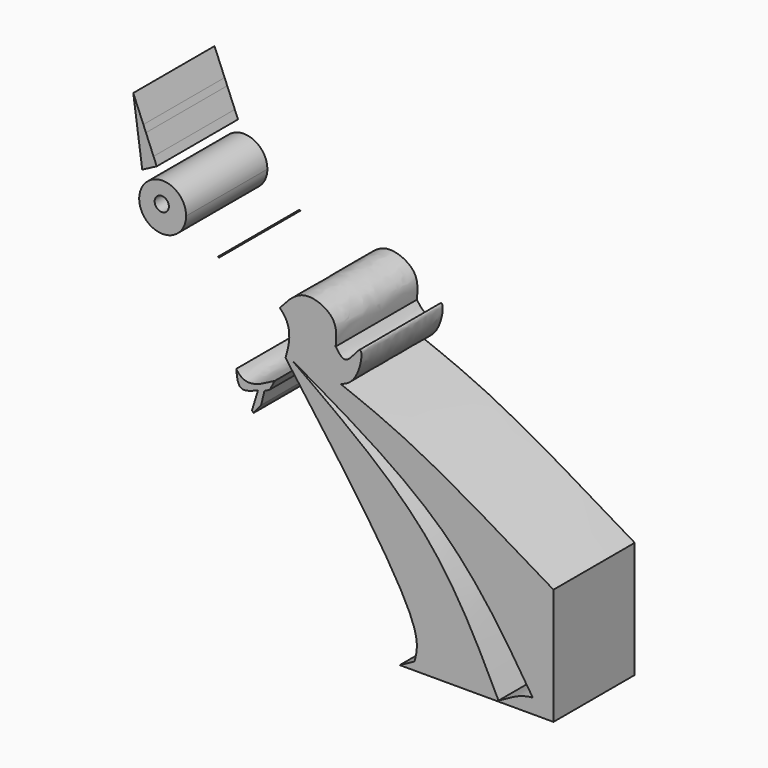
from build123d import *

# Parameters (mm, degrees)
F1_DEPTH = 25.4
F0_R     = 1.7834628767


with BuildPart() as f1:
    # F0 (on Front) → F1 (new body)
    with BuildSketch(Plane.XZ):
        Polygon((-22.9100676942, 42.8284476999), (-25.4338644445, 48.9523671567), (-24.4440726353, 41.833478334), align=None)
        Polygon((-22.9100676942, 42.8284476999), (-24.4440726353, 41.833478334), (-24.1491642219, 39.7124058128), (-22.2565439392, 41.242691304), align=None)
        Polygon((-22.2565439392, 41.242691304), (-24.1491642219, 39.7124058128), (-23.7530106851, 36.8631470503), (-21.2160514777, 38.7179665895), align=None)
        Polygon((-21.2160514777, 38.7179665895), (-23.7530106851, 36.8631470503), (-23.3938598176, 34.2800229301), (-20.3630941983, 36.6482905434), align=None)
        with BuildLine():
            Line((-20.3630941983, 36.6482905434), (-23.3938598176, 34.2800229301))
            Line((-23.3938598176, 34.2800229301), (-23.1896936893, 32.8115969896))
            Line((-23.1896936893, 32.8115969896), (-23.0944005255, 32.861512475))
            ThreePointArc((-23.0944005255, 32.861512475), (-21.536076112, 33.8323842773), (-19.8506553661, 34.5606177173))
            Line((-19.8506553661, 34.5606177173), (-19.5644944906, 34.7105115652))
            Line((-19.5644944906, 34.7105115652), (-20.3630941983, 36.6482905434))
        make_face()
        with BuildLine():
            ThreePointArc((-19.8506553661, 34.5606177173), (-21.536076112, 33.8323842773), (-23.0944005255, 32.861512475))
            Line((-23.0944005255, 32.861512475), (-19.8506553661, 34.5606177173))
        make_face()
    extrude(amount=F1_DEPTH)


with BuildPart() as f1b:
    # F0 (on Front) → F1, piece 2 (new body)
    with BuildSketch(Plane.XZ):
        with BuildLine():
            Line((7.3678023182, -5.9633478522), (8.6915092543, -5.2727186121))
            Line((8.6915092543, -5.2727186121), (9.9576627836, -2.9130687471))
            add(Edge.make_bspline(
                [(9.9576627836, -2.9130687471), (7.2934083331, -4.3884854622), (3.4390867087, -6.5229402058), (0.9154172603, -4.321786708), (0.3169151371, -3.4018067018)],
                knots=[0, 0, 0, 0, 0.2804208607, 0.4056790399, 0.4056790399, 0.4056790399, 0.4056790399], degree=3))
            add(Edge.make_bspline(
                [(0.3169151371, -3.4018067018), (0.4735126403, -5.0509317641), (0.7934307177, -8.4199824116), (4.079017662, -7.0603283138), (5.7563344017, -6.3662147149)],
                knots=[0, 0, 0, 0, 0.4894925113, 1, 1, 1, 1], degree=3))
            Line((5.7563344017, -6.3662147149), (7.3678023182, -5.9633478522))
        make_face()
        Polygon((6.5620685928, -9.3013895676), (7.3678023182, -5.9633478522), (5.7563344017, -6.3662147149), (4.2599714361, -11.2581718713), (4.6356988207, -11.7292987501), align=None)
    extrude(amount=F1_DEPTH)


with BuildPart() as f1c:
    # F0 (on Front) → F1, piece 3 (new body)
    with BuildSketch(Plane.XZ):
        with BuildLine():
            add(Edge.make_bspline(
                [(11.1995394877, 13.5578365372), (13.102668093, 15.7551518419), (16.8397830976, 20.0703916826), (25.7752520583, 16.2097157192), (25.3665615723, 11.7141237547), (25.172656402, 9.5816049725)],
                knots=[0, 0, 0, 0, 0.3530775685, 0.6931085154, 1, 1, 1, 1], degree=3))
            add(Edge.make_bspline(
                [(13.3967538173, 9.8631651647), (13.3099779159, 10.2531594082), (12.8857542425, 11.599367998), (11.9969733927, 12.8016439042), (11.1995394877, 13.5578365372)],
                knots=[0.3052767295, 0.3052767295, 0.3052767295, 0.3052767295, 0.3430149898, 0.4390412883, 0.4390412883, 0.4390412883, 0.4390412883], degree=3))
            add(Edge.make_bspline(
                [(26.3748617337, 1.7824834694), (24.4786632438, 1.3069342857), (19.4102807977, 2.0805751093), (16.182781783, 6.7144995217), (15.164352776, 10.8239090423), (13.8978703904, 10.1356632019), (13.3967538173, 9.8631651647)],
                knots=[0.5136939443, 0.5136939443, 0.5136939443, 0.5136939443, 0.6337715162, 0.8018048617, 0.9214431496, 1, 1, 1, 1], degree=3))
            add(Edge.make_bspline(
                [(25.172656402, 9.5816049725), (26.0256189076, 8.3626269027), (27.8732100394, 5.7222122761), (32.53464609, 14.3338237837), (31.2517450854, 4.1198016009), (27.5567602879, 2.078892783), (26.3748617337, 1.7824834694)],
                knots=[0, 0, 0, 0, 0.1208801505, 0.2618084346, 0.4388497182, 0.5136939443, 0.5136939443, 0.5136939443, 0.5136939443], degree=3))
        make_face()
        with BuildLine():
            add(Edge.make_bspline(
                [(26.3748617337, 1.7824834694), (24.4786632438, 1.3069342857), (19.4102807977, 2.0805751093), (16.182781783, 6.7144995217), (15.164352776, 10.8239090423), (13.8978703904, 10.1356632019), (13.3967538173, 9.8631651647)],
                knots=[0.5136939443, 0.5136939443, 0.5136939443, 0.5136939443, 0.6337715162, 0.8018048617, 0.9214431496, 1, 1, 1, 1], degree=3))
            add(Edge.make_bspline(
                [(13.4936010892, 6.7625090508), (13.6249872982, 7.8467701656), (13.6139755122, 8.8869124365), (13.3967538173, 9.8631651647)],
                knots=[0.2108084645, 0.2108084645, 0.2108084645, 0.2108084645, 0.3052767295, 0.3052767295, 0.3052767295, 0.3052767295], degree=3))
            add(Edge.make_bspline(
                [(23.6649847588, 0.4353575829), (20.3023370373, 2.540814331), (16.8979690633, 4.6516616909), (13.4936010892, 6.7625090508)],
                knots=[0.8849952308, 0.8849952308, 0.8849952308, 0.8849952308, 1, 1, 1, 1], degree=3))
            add(Edge.make_bspline(
                [(79.6498671174, -32.3402956128), (70.7382485823, -25.6757973438), (53.0737396883, -12.4655046811), (33.4090025187, -3.8390916864), (23.6649847588, 0.4353575829)],
                knots=[0, 0, 0, 0, 0.5044928556, 1, 1, 1, 1], degree=3))
            Line((79.6498671174, -32.3402956128), (79.6498671174, -26.2255966663))
            add(Edge.make_bspline(
                [(79.6498671174, -26.2255966663), (67.195591653, -18.7096857526), (45.9244782641, -5.8679201366), (32.1042021144, -0.4631162389), (26.3748617337, 1.7824834694)],
                knots=[0, 0, 0, 0, 0.5854506367, 1, 1, 1, 1], degree=3))
        make_face()
        with BuildLine():
            add(Edge.make_bspline(
                [(23.6649847588, 0.4353575829), (20.3023370373, 2.540814331), (16.8979690633, 4.6516616909), (13.4936010892, 6.7625090508)],
                knots=[0.8849952308, 0.8849952308, 0.8849952308, 0.8849952308, 1, 1, 1, 1], degree=3))
            add(Edge.make_bspline(
                [(12.8726503511, 3.8568314283), (13.1589002344, 4.8499495328), (13.3797309677, 5.8227989722), (13.4936010892, 6.7625090508)],
                knots=[0.1289344772, 0.1289344772, 0.1289344772, 0.1289344772, 0.2108084645, 0.2108084645, 0.2108084645, 0.2108084645], degree=3))
            Line((12.8726503511, 3.8568314283), (14.1145518273, 3.1241918572))
            add(Edge.make_bspline(
                [(74.4853538034, -51.6848177491), (67.8697829303, -41.3749614778), (53.9210289847, -19.6369057455), (27.830793174, -4.7186701674), (14.1145518273, 3.1241918572)],
                knots=[0, 0, 0, 0, 0.474276835, 1, 1, 1, 1], degree=3))
            add(Edge.make_bspline(
                [(74.4853538034, -51.6848177491), (75.2532722885, -50.5569895458), (76.7194981017, -48.4351104873), (78.7055638503, -47.4397782041), (79.6498671174, -46.9699688256)],
                knots=[0, 0, 0, 0, 0.5257876641, 1, 1, 1, 1], degree=3))
            Line((79.6498671174, -46.9699688256), (79.6498671174, -45.374263078))
            add(Edge.make_bspline(
                [(79.6498671174, -45.374263078), (73.9639050001, -38.5749047223), (61.908256077, -24.1585798245), (37.3370442092, -8.1251376623), (23.6649847588, 0.4353575829)],
                knots=[0, 0, 0, 0, 0.417401783, 0.8849952308, 0.8849952308, 0.8849952308, 0.8849952308], degree=3))
        make_face()
        with BuildLine():
            Line((14.1145518273, 3.1241918572), (12.8726503511, 3.8568314283))
            add(Edge.make_bspline(
                [(12.629107162, 3.0539237688), (12.7144569126, 3.3228512302), (12.7959048356, 3.5905697973), (12.8726503511, 3.8568314283)],
                knots=[0.1069835115, 0.1069835115, 0.1069835115, 0.1069835115, 0.1289344772, 0.1289344772, 0.1289344772, 0.1289344772], degree=3))
            add(Edge.make_bspline(
                [(12.629107162, 3.0539237688), (27.4083446688, -16.9764718508), (47.2608873564, -43.8966934003), (45.4056145875, -51.3340987373), (44.9297228388, -53.2412977891)],
                knots=[0.0008687497, 0.0008687497, 0.0008687497, 0.0008687497, 0.743798112, 1, 1, 1, 1], degree=3))
            Line((44.9297228388, -53.2412977891), (44.9400234568, -53.3147102781))
            add(Edge.make_bspline(
                [(44.9400234568, -53.3147102781), (47.4482459083, -52.0674234641), (50.7039411921, -50.8505914393), (54.1312274801, -51.0922982039), (54.888123322, -51.2028494127)],
                knots=[0.1612518221, 0.1612518221, 0.1612518221, 0.1612518221, 0.4835534699, 0.5738587509, 0.5738587509, 0.5738587509, 0.5738587509], degree=3))
            add(Edge.make_bspline(
                [(14.1145518273, 3.1241918572), (23.6649847588, -6.2222828756), (41.6151411246, -23.7840879693), (50.6549721415, -42.468973353), (54.888123322, -51.2028494127)],
                knots=[0, 0, 0, 0, 0.5320886171, 1, 1, 1, 1], degree=3))
        make_face()
        with BuildLine():
            add(Edge.make_bspline(
                [(79.6498671174, -32.3402956128), (70.7382485823, -25.6757973438), (53.0737396883, -12.4655046811), (33.4090025187, -3.8390916864), (23.6649847588, 0.4353575829)],
                knots=[0, 0, 0, 0, 0.5044928556, 1, 1, 1, 1], degree=3))
            add(Edge.make_bspline(
                [(79.6498671174, -45.374263078), (73.9639050001, -38.5749047223), (61.908256077, -24.1585798245), (37.3370442092, -8.1251376623), (23.6649847588, 0.4353575829)],
                knots=[0, 0, 0, 0, 0.417401783, 0.8849952308, 0.8849952308, 0.8849952308, 0.8849952308], degree=3))
            Line((79.6498671174, -45.374263078), (79.6498671174, -32.3402956128))
        make_face()
        with BuildLine():
            add(Edge.make_bspline(
                [(65.9053176641, -55.1066324115), (60.7417418721, -44.5506167606), (49.8610787063, -22.3070291197), (26.4274262129, -5.6355802577), (14.1145518273, 3.1241918572)],
                knots=[0, 0, 0, 0, 0.4745644372, 1, 1, 1, 1], degree=3))
            add(Edge.make_bspline(
                [(14.1145518273, 3.1241918572), (23.6649847588, -6.2222828756), (41.6151411246, -23.7840879693), (50.6549721415, -42.468973353), (54.888123322, -51.2028494127)],
                knots=[0, 0, 0, 0, 0.5320886171, 1, 1, 1, 1], degree=3))
            add(Edge.make_bspline(
                [(54.888123322, -51.2028494127), (54.9170193728, -51.2070699318), (54.9459253088, -51.211374475), (54.9748410499, -51.2157623627)],
                knots=[0.5738587509, 0.5738587509, 0.5738587509, 0.5738587509, 0.5773063402, 0.5773063402, 0.5773063402, 0.5773063402], degree=3))
            add(Edge.make_bspline(
                [(54.9748410499, -51.2157623627), (58.5200720553, -51.753741842), (62.2126948597, -53.5445647148), (65.9053176641, -55.3353875875)],
                knots=[0.5773063402, 0.5773063402, 0.5773063402, 0.5773063402, 1, 1, 1, 1], degree=3))
            Line((65.9053176641, -55.3353875875), (65.9053176641, -55.1066324115))
        make_face()
        with BuildLine():
            add(Edge.make_bspline(
                [(54.888123322, -51.2028494127), (54.9170193728, -51.2070699318), (54.9459253088, -51.211374475), (54.9748410499, -51.2157623627)],
                knots=[0.5738587509, 0.5738587509, 0.5738587509, 0.5738587509, 0.5773063402, 0.5773063402, 0.5773063402, 0.5773063402], degree=3))
            add(Edge.make_bspline(
                [(44.9400234568, -53.3147102781), (47.4482459083, -52.0674234641), (50.7039411921, -50.8505914393), (54.1312274801, -51.0922982039), (54.888123322, -51.2028494127)],
                knots=[0.1612518221, 0.1612518221, 0.1612518221, 0.1612518221, 0.4835534699, 0.5738587509, 0.5738587509, 0.5738587509, 0.5738587509], degree=3))
            add(Edge.make_bspline(
                [(41.1928109825, -55.3353875875), (42.4389686118, -54.6370660645), (43.6851262412, -53.9387445415), (44.9400234568, -53.3147102781)],
                knots=[0, 0, 0, 0, 0.1612518221, 0.1612518221, 0.1612518221, 0.1612518221], degree=3))
            Line((41.1928109825, -55.3353875875), (65.9053176641, -55.3353875875))
            add(Edge.make_bspline(
                [(54.9748410499, -51.2157623627), (58.5200720553, -51.753741842), (62.2126948597, -53.5445647148), (65.9053176641, -55.3353875875)],
                knots=[0.5773063402, 0.5773063402, 0.5773063402, 0.5773063402, 1, 1, 1, 1], degree=3))
        make_face()
        with BuildLine():
            add(Edge.make_bspline(
                [(65.9053176641, -55.1066324115), (68.4963599489, -53.6194818578), (71.4236801138, -51.939321781), (74.171551606, -51.696600774), (74.4852046249, -51.6848233494)],
                knots=[0, 0, 0, 0, 0.5377271346, 0.6075159382, 0.6075159382, 0.6075159382, 0.6075159382], degree=3))
            Line((65.9053176641, -55.1066324115), (65.9053176641, -55.3353875875))
            Line((65.9053176641, -55.3353875875), (79.6498671174, -55.3353875875))
            Line((79.6498671174, -55.3353875875), (79.6498671174, -52.5048784912))
            add(Edge.make_bspline(
                [(74.4858599757, -51.6847987648), (76.2495736403, -51.6186982522), (77.9497203789, -52.0617883717), (79.6498671174, -52.5048784912)],
                knots=[0.6075645443, 0.6075645443, 0.6075645443, 0.6075645443, 1, 1, 1, 1], degree=3))
            add(Edge.make_bspline(
                [(74.4853538034, -51.6848177491), (74.4855225281, -51.6848114163), (74.4856912522, -51.6848050882), (74.4858599757, -51.6847987648)],
                knots=[0.6075270024, 0.6075270024, 0.6075270024, 0.6075270024, 0.6075645443, 0.6075645443, 0.6075645443, 0.6075645443], degree=3))
            add(Edge.make_bspline(
                [(74.4852046249, -51.6848233494), (74.4852543511, -51.6848214822), (74.4853040773, -51.6848196154), (74.4853538034, -51.6848177491)],
                knots=[0.6075159382, 0.6075159382, 0.6075159382, 0.6075159382, 0.6075270024, 0.6075270024, 0.6075270024, 0.6075270024], degree=3))
        make_face()
        with BuildLine():
            add(Edge.make_bspline(
                [(74.4853538034, -51.6848177491), (75.2532722885, -50.5569895458), (76.7194981017, -48.4351104873), (78.7055638503, -47.4397782041), (79.6498671174, -46.9699688256)],
                knots=[0, 0, 0, 0, 0.5257876641, 1, 1, 1, 1], degree=3))
            add(Edge.make_bspline(
                [(74.4853538034, -51.6848177491), (74.4855225281, -51.6848114163), (74.4856912522, -51.6848050882), (74.4858599757, -51.6847987648)],
                knots=[0.6075270024, 0.6075270024, 0.6075270024, 0.6075270024, 0.6075645443, 0.6075645443, 0.6075645443, 0.6075645443], degree=3))
            add(Edge.make_bspline(
                [(74.4858599757, -51.6847987648), (76.2495736403, -51.6186982522), (77.9497203789, -52.0617883717), (79.6498671174, -52.5048784912)],
                knots=[0.6075645443, 0.6075645443, 0.6075645443, 0.6075645443, 1, 1, 1, 1], degree=3))
            Line((79.6498671174, -52.5048784912), (79.6498671174, -46.9699688256))
        make_face()
    extrude(amount=F1_DEPTH)


with BuildPart() as f1d:
    # F0 (on Front) → F1, piece 4 (new body)
    with BuildSketch(Plane.XZ):
        with BuildLine():
            ThreePointArc((-4.2518144473, 19.7993554175), (-4.1150908493, 19.7343010507), (-3.9729524271, 19.6821274765))
            add(Edge.make_bspline(
                [(-3.9729524271, 19.6821274765), (-4.0415578717, 19.7528149264), (-4.1466861595, 19.7760851719), (-4.2518144473, 19.7993554175)],
                knots=[0.862700932, 0.862700932, 0.862700932, 0.862700932, 1, 1, 1, 1], degree=3))
        make_face()
    extrude(amount=F1_DEPTH)


with BuildPart() as f1e:
    # F0 (on Front) → F1, piece 5 (new body)
    with BuildSketch(Plane.XZ):
        with BuildLine():
            ThreePointArc((-13.5775777234, 22.4159570644), (-12.5679432875, 24.1750060763), (-12.2174417016, 26.1726956815))
            ThreePointArc((-12.2174417016, 26.1726956815), (-19.4064470033, 31.8903004933), (-23.3592220436, 23.5988367206))
            Line((-23.3592220436, 23.5988367206), (-13.5775777234, 22.4159570644))
        make_face()
        with Locations((-18.3050855994, 26.8455650657)):
            Circle(F0_R, mode=Mode.SUBTRACT)
        with BuildLine():
            Line((-13.5775777234, 22.4159570644), (-23.3592220436, 23.5988367206))
            ThreePointArc((-23.3592220436, 23.5988367206), (-18.7901231875, 20.3469547136), (-13.5775777234, 22.4159570644))
        make_face()
    extrude(amount=F1_DEPTH)


solid = Compound([f1.part, f1b.part, f1c.part, f1d.part, f1e.part])
